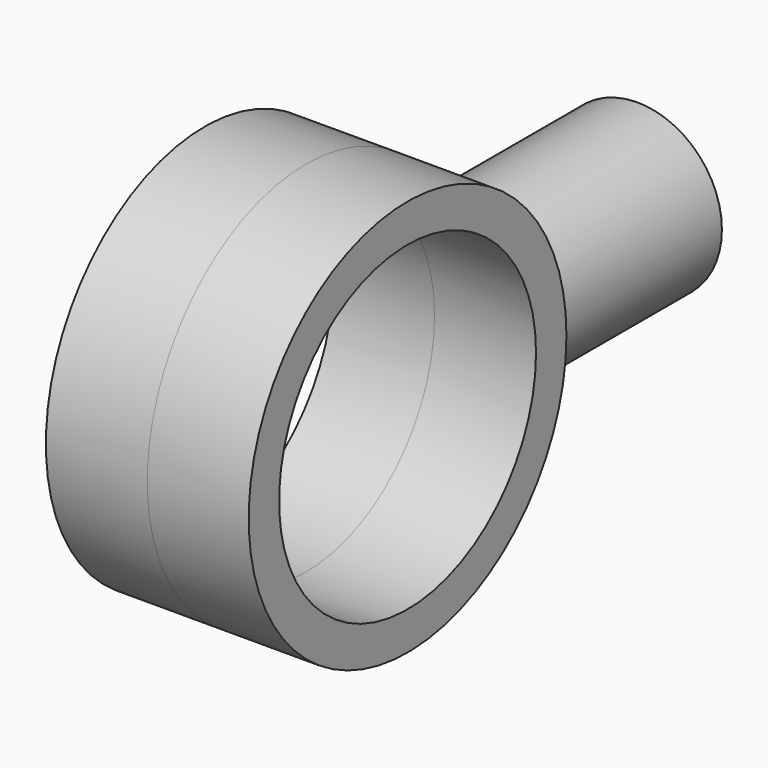
from build123d import *

# Parameters (mm, degrees)
F0_R     = 10
F0_R_2   = 4.25
F1_DEPTH = 30
F2_R     = 23.5
F2_R_2   = 19
F3_DEPTH = 12


with BuildPart() as f1:
    # F0 (on Front) → F1 (new body)
    with BuildSketch(Plane.XZ):
        Circle(F0_R)
        Circle(F0_R_2, mode=Mode.SUBTRACT)
    extrude(amount=F1_DEPTH)

    # F2 (on Right) → F3 (join)
    with BuildSketch(Plane.YZ):
        with Locations((-49, 0)):
            Circle(F2_R)
        with Locations((-49, 0)):
            Circle(F2_R_2, mode=Mode.SUBTRACT)
    extrude(amount=F3_DEPTH)

    # F4: F1 across plane


with BuildPart() as f1_1:
    add(f1.part)
    add(f1.part.mirror(Plane.YZ))


solid = f1_1.part
